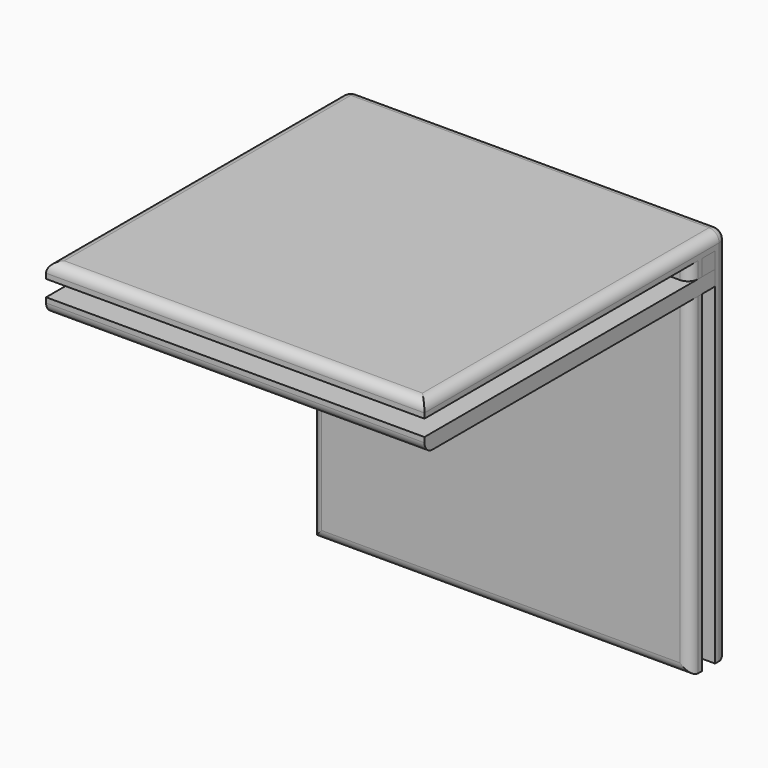
from build123d import *

# Parameters (mm, degrees)
F0_W     = 75
F0_H     = 75
F1_DEPTH = 3
F2_W     = 3
F2_H     = 75
F3_DEPTH = 75
F4_W     = 75
F4_H     = 3
F5_DEPTH = 72
F6_W     = 3.2
F6_H     = 3.2
F7_DEPTH = 75
F8_R     = 2
F8_2_R   = 2


with BuildPart() as f1:
    # F0 (on Top) → F1 (new body)
    with BuildSketch(Plane.XY):
        Rectangle(F0_W, F0_H)
    extrude(amount=F1_DEPTH)

    # F2 (on face) → F3 (join, through all)
    with BuildSketch(Plane(origin=(-37.5, 0, 0), x_dir=(0, -1, 0), z_dir=(-1, 0, 0))):
        with Locations((-36, -34.5)):
            Rectangle(F2_W, F2_H)
        with Locations((-29.8, -34.5)):
            Rectangle(F2_W, F2_H)
    extrude(amount=-F3_DEPTH)

    # F8
    f8_edges = [f1.edges().sort_by_distance(p)[0] for p in [
        (-37.5, 0, 3),
        (0, -37.5, 3),
        (37.5, 0, 3),
        (0, 37.5, 3),
        (-37.5, 37.5, -34.5),
        (0, 37.5, -72),
        (37.5, 37.5, -34.5),
        (0, 28.3, -72),
        (37.5, 28.3, -36),
        (-37.5, 28.3, -36),
    ]]
    fillet(f8_edges, radius=F8_R)


with BuildPart() as f5:
    # F4 (on face) → F5 (new body, through all)
    with BuildSketch(Plane.XZ.offset(37.5)):
        with Locations((0, -4.7)):
            Rectangle(F4_W, F4_H)
    extrude(amount=-F5_DEPTH)

    # F8#2
    f8_2_edges = [f5.edges().sort_by_distance(p)[0] for p in [
        (0, -37.5, -6.2),
    ]]
    fillet(f8_2_edges, radius=F8_2_R)


with BuildPart() as f7:
    # F6 (on face) → F7 (new body, through all)
    with BuildSketch(Plane(origin=(-37.5, 0, 0), x_dir=(0, -1, 0), z_dir=(-1, 0, 0))):
        with Locations((-32.9, -1.6)):
            Rectangle(F6_W, F6_H)
    extrude(amount=-F7_DEPTH)


solid = Compound([f1.part, f5.part, f7.part])
